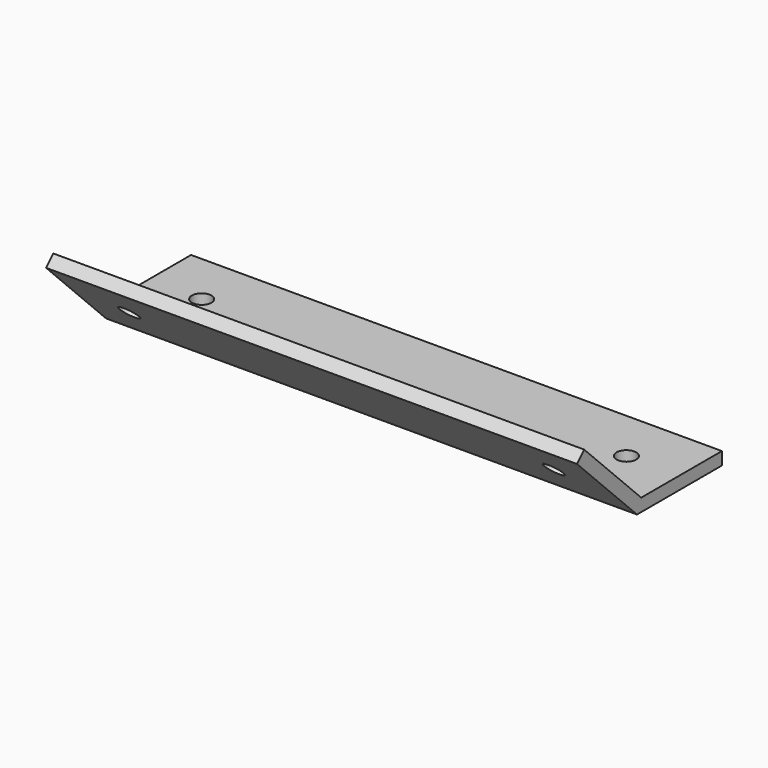
from build123d import *

# Parameters (mm, degrees)
F1_DEPTH = 125
F2_R     = 2.3114
F3_DEPTH = 25
F4_R     = 2.3114
F5_DEPTH = 25


with BuildPart() as f1:
    # F0 (on Right) → F1 (new body)
    with BuildSketch(Plane.YZ):
        Polygon((-17.67767, 17.67767), (0, 0), (25, 0), (25, 3), (1.242641, 3), (-15.556349, 19.79899), align=None)
    extrude(amount=F1_DEPTH)

    # F2 (on face) → F3 (cut)
    with BuildSketch(Plane(origin=(0, 0, 0), x_dir=(1, 0, 0), z_dir=(0, 0, -1))):
        with Locations((12.5, -12.5)):
            Circle(F2_R)
        with Locations((112.5, -12.5)):
            Circle(F2_R)
    extrude(amount=-F3_DEPTH, mode=Mode.SUBTRACT)

    # F4 (on face) → F5 (cut)
    with BuildSketch(Plane(origin=(0, 0, 0), x_dir=(1, 0, 0), z_dir=(0, -0.707107, -0.707107))):
        with Locations((12.5, 12.5)):
            Circle(F4_R)
        with Locations((112.5, 12.5)):
            Circle(F4_R)
    extrude(amount=-F5_DEPTH, mode=Mode.SUBTRACT)


solid = f1.part
